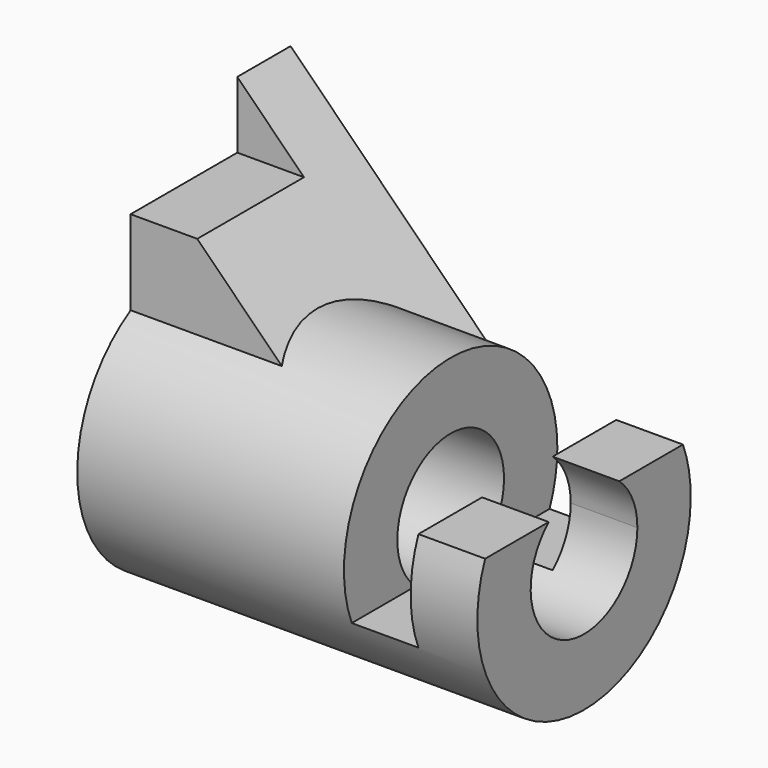
from build123d import *

# Parameters (mm, degrees)
F0_R     = 12.7
F1_DEPTH = 76.2
F3_DEPTH = 50.8
F4_DEPTH = 12.7
F5_DEPTH = 25.4
F6_DEPTH = 12.7
F7_DEPTH = 25.4
F8_DEPTH = 76.2


with BuildPart() as f1:
    # F0 (on Right) → F1 (new body)
    with BuildSketch(Plane.YZ):
        with BuildLine():
            ThreePointArc((-12.7, 21.9970452561), (-12.7, -21.9970452561), (25.4, 0))
            ThreePointArc((25.4, 0), (12.7, 21.9970452561), (-12.7, 21.9970452561))
        make_face()
        Circle(F0_R, mode=Mode.SUBTRACT)
    extrude(amount=-F1_DEPTH)

    # F2 (on Front) → F3 (cut, symmetric)
    with BuildSketch(Plane.XZ):
        Polygon((-12.7, 9.525), (0, 9.525), (0, 25.4), (0, 50.8), (-76.2, 50.8), (-63.5, 38.1), (-50.8, 25.4), (-25.4, 25.4), (-25.4, 0), (-25.4, -9.525), (-12.7, -9.525), align=None)
    extrude(amount=F3_DEPTH, both=True, mode=Mode.SUBTRACT)

    # F2 (on Front) → F4 (join, symmetric)
    with BuildSketch(Plane.XZ):
        Polygon((-76.2, 38.1), (-76.2, 20.32), (-45.72, 20.32), (-50.8, 25.4), (-63.5, 38.1), align=None)
    extrude(amount=F4_DEPTH, both=True)

    # F2 (on Front) → F5 (join)
    with BuildSketch(Plane.XZ):
        Polygon((-76.2, 50.8), (-76.2, 38.1), (-63.5, 38.1), align=None)
        Polygon((-76.2, 38.1), (-76.2, 20.32), (-45.72, 20.32), (-50.8, 25.4), (-63.5, 38.1), align=None)
    extrude(amount=-F5_DEPTH)

    # F6 (cut): a face of the model
    f6_faces = [f1.faces().sort_by_distance(p)[0] for p in [
        (-71.9666666667, 0, 42.3333333333),
    ]]
    extrude(f6_faces, amount=-F6_DEPTH, mode=Mode.SUBTRACT)

    # F2 (on Front) → F7 (join, through all)
    with BuildSketch(Plane.XZ):
        Polygon((-76.2, 20.32), (-76.2, 0), (-25.4, 0), (-45.72, 20.32), align=None)
    extrude(amount=-F7_DEPTH)

    # F0 (on Right) → F8 (cut, through all)
    with BuildSketch(Plane.YZ):
        Circle(F0_R)
    extrude(amount=-F8_DEPTH, mode=Mode.SUBTRACT)


solid = f1.part
